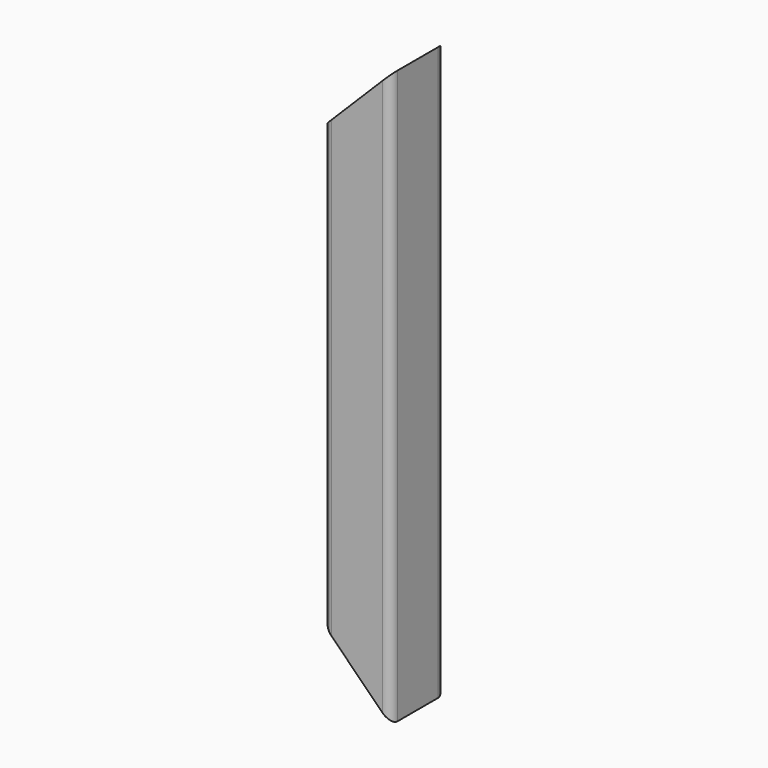
from build123d import *

# Parameters (mm, degrees)
F1_DEPTH = 215.526147
F4_DEPTH = 25.4
F5_DEPTH = 25.4


with BuildPart() as f1:
    # F0 (on Top) → F1 (new body)
    with BuildSketch(Plane.XY):
        with BuildLine():
            Line((-10.264983, -11.722456), (8.785017, -11.722456))
            ThreePointArc((8.785017, -11.722456), (11.030081, -10.79252), (11.960017, -8.547456))
            Line((11.960017, -8.547456), (11.960017, 10.502544))
            ThreePointArc((11.960017, 10.502544), (11.030081, 12.747608), (8.785017, 13.677544))
            Line((8.785017, 13.677544), (-10.264983, 13.677544))
            ThreePointArc((-10.264983, 13.677544), (-12.510047, 12.747608), (-13.439983, 10.502544))
            Line((-13.439983, 10.502544), (-13.439983, -8.547456))
            ThreePointArc((-13.439983, -8.547456), (-12.510047, -10.79252), (-10.264983, -11.722456))
        make_face()
        with BuildLine():
            ThreePointArc((8.785017, -5.372456), (7.855081, -7.61752), (5.610017, -8.547456))
            Line((5.610017, -8.547456), (-7.089983, -8.547456))
            ThreePointArc((-7.089983, -8.547456), (-9.335047, -7.61752), (-10.264983, -5.372456))
            Line((-10.264983, -5.372456), (-10.264983, 7.327544))
            ThreePointArc((-10.264983, 7.327544), (-9.335047, 9.572608), (-7.089983, 10.502544))
            Line((-7.089983, 10.502544), (5.610017, 10.502544))
            ThreePointArc((5.610017, 10.502544), (7.855081, 9.572608), (8.785017, 7.327544))
            Line((8.785017, 7.327544), (8.785017, -5.372456))
        make_face(mode=Mode.SUBTRACT)
    extrude(amount=F1_DEPTH)

    # F2 (on Front) → F4 (cut, symmetric)
    with BuildSketch(Plane.XZ):
        Polygon((-13.439983, 0), (11.960017, 0), (-13.439983, 25.4), align=None)
    extrude(amount=F4_DEPTH, both=True, mode=Mode.SUBTRACT)

    # F3 (on Front) → F5 (cut, symmetric)
    with BuildSketch(Plane.XZ):
        Polygon((-13.439983, 215.526147), (-13.439983, 190.126147), (11.960017, 215.526147), align=None)
    extrude(amount=F5_DEPTH, both=True, mode=Mode.SUBTRACT)


solid = f1.part
